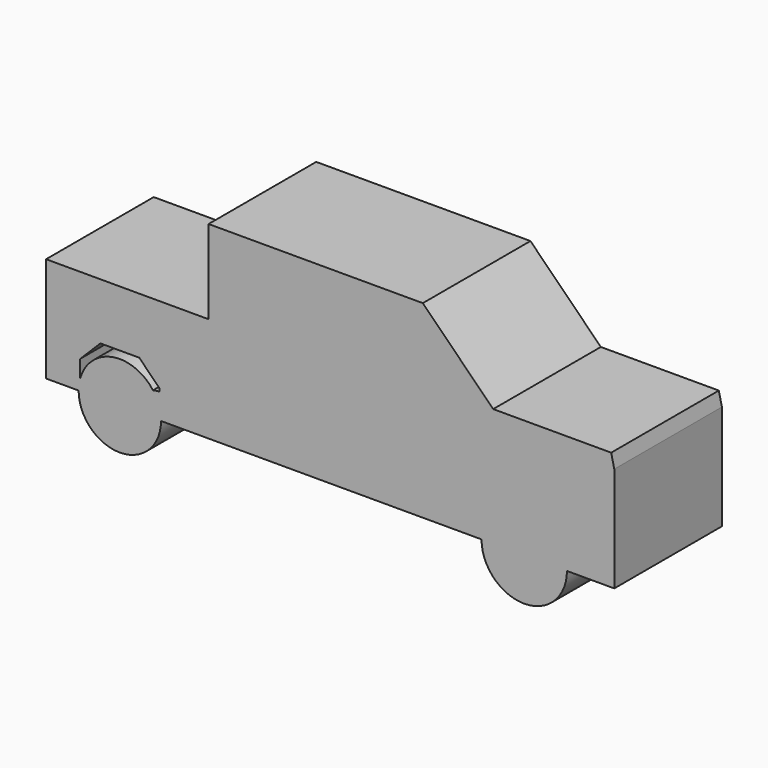
from build123d import *

# Parameters (mm, degrees)
F1_DEPTH = 25.4


with BuildPart() as f1:
    # F0 (on Front) → F1 (new body)
    with BuildSketch(Plane.XZ):
        with BuildLine():
            Line((-59.0061545372, 19.8315382004), (-59.0061545372, 0))
            Line((-59.0061545372, 0), (-57.6384626329, 0))
            Line((-57.6384626329, 0), (-52.8619785953, 0))
            ThreePointArc((-52.8619785953, 0), (-52.785725887, 1.0863777847), (-52.5584630668, 2.1514518559))
            Line((-52.5584630668, 2.1514518559), (-52.5584630668, 5.3730774671))
            Line((-52.5584630668, 5.3730774671), (-48.7484624609, 9.183078073))
            Line((-48.7484624609, 9.183078073), (-41.4215400815, 9.183078073))
            Line((-41.4215400815, 9.183078073), (-37.6115394756, 5.3730774671))
            Line((-37.6115394756, 5.3730774671), (-37.6115394756, 4.7639395972))
            ThreePointArc((-37.6115394756, 4.7639395972), (-38.2208958426, 4.7248074356), (-38.8202414059, 4.6080538331))
            ThreePointArc((-38.8202414059, 4.6080538331), (-37.6957431315, 2.4249207086), (-37.3080239472, 0))
            Line((-37.3080239472, 0), (23.1979270853, 0))
            ThreePointArc((23.1979270853, 0), (23.2602248919, 1.000404867), (23.446155712, 1.9853518934))
            ThreePointArc((23.446155712, 1.9853518934), (30.0178470159, 7.9671258273), (38.0999986082, 4.2728638401))
            ThreePointArc((38.0999986082, 4.2728638401), (39.0128166681, 2.2225195794), (39.3251548134, 0))
            Line((39.3251548134, 0), (48.2600033283, 0))
            Line((48.2600033283, 0), (48.2600033283, 16.9007703662))
            Line((48.2600033283, 16.9007703662), (48.2600033283, 19.8315382004))
            Line((48.2600033283, 19.8315382004), (47.6738475263, 22.3715398461))
            Line((47.6738475263, 22.3715398461), (25.399999693, 22.3715398461))
            Line((25.399999693, 22.3715398461), (12.1138468385, 35.6576927006))
            Line((12.1138468385, 35.6576927006), (-28.3307693899, 35.6576927006))
            Line((-28.3307693899, 35.6576927006), (-28.3307693899, 19.8315382004))
            Line((-28.3307693899, 19.8315382004), (-59.0061545372, 19.8315382004))
        make_face()
        with BuildLine():
            ThreePointArc((-52.5584630668, 2.1514518559), (-52.785725887, 1.0863777847), (-52.8619785953, 0))
            Line((-52.8619785953, 0), (-52.5584630668, 0))
            Line((-52.5584630668, 0), (-52.5584630668, 2.1514518559))
        make_face()
        with BuildLine():
            Line((-52.5584630668, 0), (-52.8619785953, 0))
            ThreePointArc((-52.8619785953, 0), (-45.0850012712, -7.776977324), (-37.3080239472, 0))
            ThreePointArc((-37.3080239472, 0), (-37.6957431315, 2.4249207086), (-38.8202414059, 4.6080538331))
            ThreePointArc((-38.8202414059, 4.6080538331), (-46.4539291026, 7.6555478505), (-52.5584630668, 2.1514518559))
            Line((-52.5584630668, 2.1514518559), (-52.5584630668, 0))
        make_face()
        with BuildLine():
            Line((23.446155712, 0), (23.1979270853, 0))
            ThreePointArc((23.1979270853, 0), (31.2615409493, -8.0636138641), (39.3251548134, 0))
            Line((39.3251548134, 0), (38.0999986082, 0))
            Line((38.0999986082, 0), (23.446155712, 0))
        make_face()
        with BuildLine():
            ThreePointArc((23.446155712, 1.9853518934), (23.2602248919, 1.000404867), (23.1979270853, 0))
            Line((23.1979270853, 0), (23.446155712, 0))
            Line((23.446155712, 0), (23.446155712, 1.9853518934))
        make_face()
        with BuildLine():
            Line((38.0999986082, 0), (39.3251548134, 0))
            ThreePointArc((39.3251548134, 0), (39.0128166681, 2.2225195794), (38.0999986082, 4.2728638401))
            Line((38.0999986082, 4.2728638401), (38.0999986082, 0))
        make_face()
        with BuildLine():
            ThreePointArc((38.0999986082, 4.2728638401), (30.0178470159, 7.9671258273), (23.446155712, 1.9853518934))
            Line((23.446155712, 1.9853518934), (23.446155712, 0))
            Line((23.446155712, 0), (38.0999986082, 0))
            Line((38.0999986082, 0), (38.0999986082, 4.2728638401))
        make_face()
    extrude(amount=F1_DEPTH)


solid = f1.part
